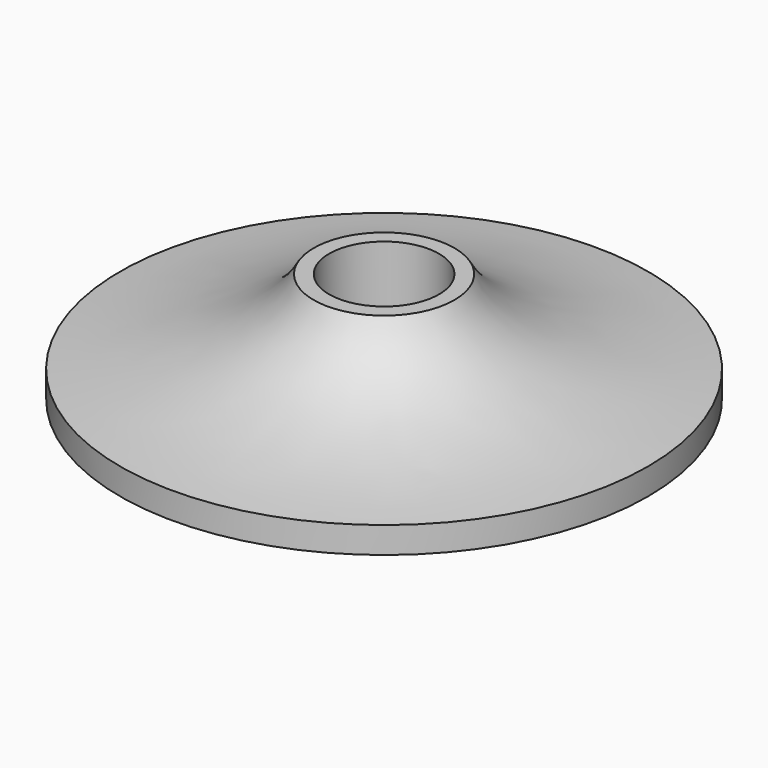
from build123d import *

# Parameters (mm, degrees)
SKETCH_R     = 2.5
POCKET_DEPTH = 5


with BuildPart() as part:
    # Sketch001 → Revolution (revolve)
    with BuildSketch(Plane.XZ):
        with BuildLine():
            Line((3.2, 5), (0, 5))
            Line((0, 5), (0, 0))
            Line((0, 0), (12, 0))
            Line((12, 0), (12, 1.2))
            add(Edge.make_bspline(
                [(3.2, 5), (4.25908, 2.992329), (6.947766, 1.664182), (12, 1.2)],
                knots=[0, 0, 0, 0, 1, 1, 1, 1], degree=3))
        make_face()
    revolve(axis=Axis((0, 0, 0), (0, 0, 1)))

    # Sketch (on Face1 of Revolution) → Pocket (cut)
    with BuildSketch(Plane(origin=(0, 0, 5), x_dir=(-1, 0, 0), z_dir=(0, 0, 1))):
        Circle(SKETCH_R)
    extrude(amount=-POCKET_DEPTH, mode=Mode.SUBTRACT)


solid = part.part
